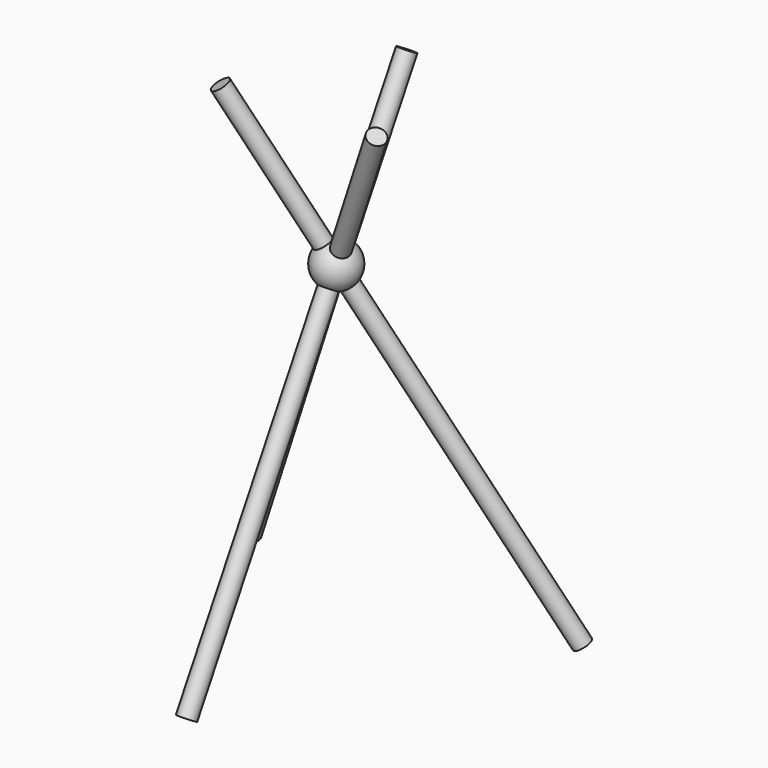
from build123d import *

# Parameters (mm, degrees)
F12_R     = 4
F14_DEPTH = 250
F11_R     = 4
F15_DEPTH = 250
F13_R     = 4
F16_DEPTH = 250


with BuildPart() as f1:
    # F0 (on Front) → F1 (revolve)
    with BuildSketch(Plane.XZ):
        with BuildLine():
            Line((0, 0), (0, 10))
            ThreePointArc((0, 10), (-10, 0), (0, -10))
            Line((0, -10), (0, 0))
        make_face()
    revolve(axis=Axis((0, 0, 5), (0, 0, 1)))

    # F12 (on line) → F14 (join)
    with BuildSketch(Plane(origin=(-35.9926120505, -20.7803442562, 68.3572173978), x_dir=(0.8930750841, -0.1308573606, 0.4304570191), z_dir=(-0.4499076506, -0.2597543032, 0.8544652175))):
        Circle(F12_R)
    extrude(amount=-F14_DEPTH)


with BuildPart() as f15:
    # F11 (on line) → F15 (new body)
    with BuildSketch(Plane(origin=(0, 40, 69.2820323028), x_dir=(1, 0, 0), z_dir=(0, 0.5, 0.8660254038))):
        Circle(F11_R)
    extrude(amount=-F15_DEPTH)


with BuildPart() as f16:
    # F13 (on line) → F16 (new body)
    with BuildSketch(Plane(origin=(33.9584064001, -19.6058950764, 69.7311660093), x_dir=(0.9054372765, 0.1148935455, -0.4086353038), z_dir=(0.42448008, -0.2450736885, 0.8716395751))):
        Circle(F13_R)
    extrude(amount=-F16_DEPTH)


solid = Compound([f1.part, f15.part, f16.part])
